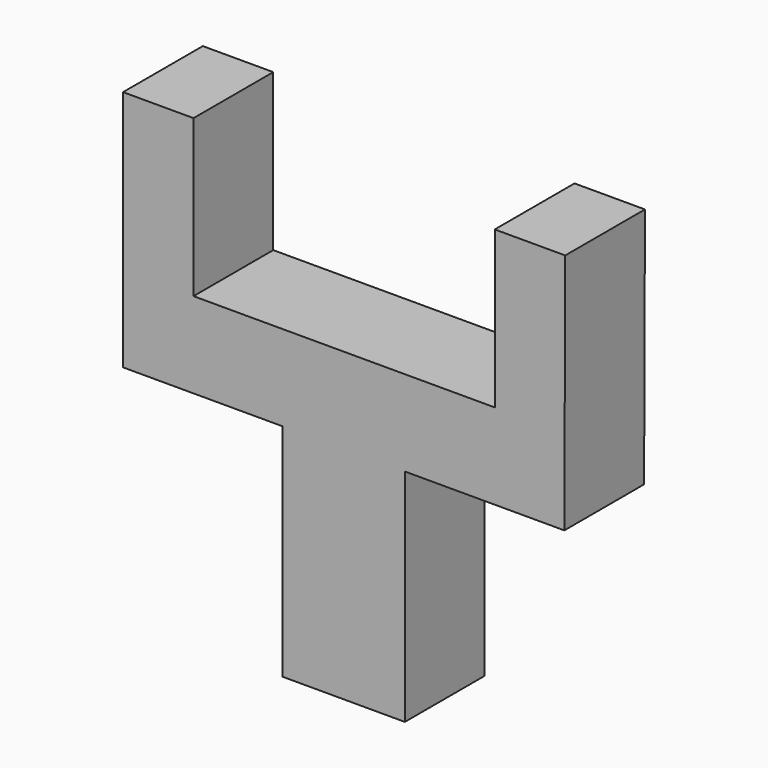
from build123d import *

# Parameters (mm, degrees)
F1_DEPTH = 25.4


with BuildPart() as f1:
    # F0 (on Front) → F1 (new body)
    with BuildSketch(Plane.XZ):
        Polygon((-58.808126, 61.748531), (-58.808126, 21.82091), (-58.808126, 0), (-18.168126, 0), (-18.168126, -56.177236), (12.999718, -56.177236), (12.999718, -0.000628), (53.639718, -3e-06), (53.855859, 61.748531), (35.903912, 61.748531), (35.903912, 21.82091), (-40.856168, 21.819731), (-40.856168, 61.748531), align=None)
    extrude(amount=F1_DEPTH)


solid = f1.part
